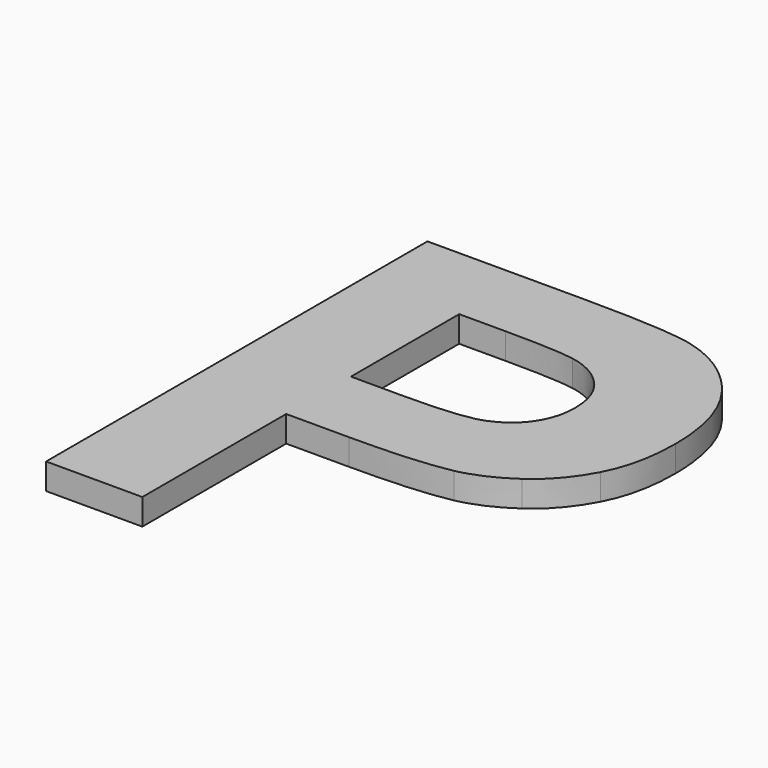
from build123d import *

# Parameters (mm, degrees)
EXTRUDE001_DEPTH = 2
EXTRUDE_DEPTH    = 2


with BuildPart() as extrude001:
    # path2994001 → Extrude001 (new body)
    with BuildSketch(Plane(origin=(10.717886, 5.857762, 0), x_dir=(0, 1, 0), z_dir=(0, 0, 1))):
        with BuildLine():
            add(Edge.make_bspline(
                [(5.186119, 6.507569), (-5.186099, 6.507569)],
                knots=[0, 0, 36.75195, 36.75195], degree=1))
            add(Edge.make_bspline(
                [(-5.186099, 6.507569), (-5.186099, 2.468388)],
                knots=[0, 0, 14.312057, 14.312057], degree=1))
            add(Edge.make_bspline(
                [(-5.186099, 2.468388), (-5.186119, -0.440469), (-4.994964, -2.385258), (-4.612635, -3.365984)],
                knots=[0, 0, 0, 0, 1, 1, 1, 1], degree=3))
            add(Edge.make_bspline(
                [(-4.612635, -3.365984), (-4.230346, -4.346668), (-3.63195, -5.115442), (-2.817443, -5.672306)],
                knots=[0, 0, 0, 0, 1, 1, 1, 1], degree=3))
            add(Edge.make_bspline(
                [(-2.817443, -5.672306), (-2.002981, -6.229124), (-1.05552, -6.507545), (0.024943, -6.507569)],
                knots=[0, 0, 0, 0, 1, 1, 1, 1], degree=3))
            add(Edge.make_bspline(
                [(0.024943, -6.507569), (1.354688, -6.507545), (2.451748, -6.116925), (3.316127, -5.335708)],
                knots=[0, 0, 0, 0, 1, 1, 1, 1], degree=3))
            add(Edge.make_bspline(
                [(3.316127, -5.335708), (4.18045, -4.554445), (4.720669, -3.565428), (4.936786, -2.368655)],
                knots=[0, 0, 0, 0, 1, 1, 1, 1], degree=3))
            add(Edge.make_bspline(
                [(4.936786, -2.368655), (5.102978, -1.487663), (5.186088, 0.282594), (5.186119, 2.942119)],
                knots=[0, 0, 0, 0, 1, 1, 1, 1], degree=3))
            add(Edge.make_bspline(
                [(5.186119, 2.942119), (5.186119, 6.507569)],
                knots=[0, 0, 12.633483, 12.633483], degree=1))
        make_face()
    extrude(amount=EXTRUDE001_DEPTH)


with BuildPart() as cut:
    # path2994 → Extrude (new body)
    with BuildSketch(Plane(origin=(10.830086, -1.048728, 0), x_dir=(0, -1, 0), z_dir=(0, 0, -1))):
        with BuildLine():
            add(Edge.make_bspline(
                [(18.276046, 14), (-18.276046, 14)],
                knots=[0, 0, 129.515286, 129.515286], degree=1))
            add(Edge.make_bspline(
                [(-18.276046, 14), (-18.276046, 2.156723)],
                knots=[0, 0, 41.964366, 41.964366], degree=1))
            add(Edge.make_bspline(
                [(-18.276046, 2.156723), (-18.27601, -2.331235), (-18.093166, -5.25673), (-17.727515, -6.619768)],
                knots=[0, 0, 0, 0, 1, 1, 1, 1], degree=3))
            add(Edge.make_bspline(
                [(-17.727515, -6.619768), (-17.178949, -8.714132), (-15.986312, -10.467766), (-14.149599, -11.880676)],
                knots=[0, 0, 0, 0, 1, 1, 1, 1], degree=3))
            add(Edge.make_bspline(
                [(-14.149599, -11.880676), (-12.312822, -13.293528), (-9.940013, -13.999968), (-7.031166, -14)],
                knots=[0, 0, 0, 0, 1, 1, 1, 1], degree=3))
            add(Edge.make_bspline(
                [(-7.031166, -14), (-4.787154, -13.999968), (-2.900543, -13.592726), (-1.371327, -12.778272)],
                knots=[0, 0, 0, 0, 1, 1, 1, 1], degree=3))
            add(Edge.make_bspline(
                [(-1.371327, -12.778272), (0.157928, -11.963758), (1.358877, -10.92903), (2.231523, -9.674087)],
                knots=[0, 0, 0, 0, 1, 1, 1, 1], degree=3))
            add(Edge.make_bspline(
                [(2.231523, -9.674087), (3.1042, -8.419089), (3.681819, -7.143341), (3.964381, -5.846839)],
                knots=[0, 0, 0, 0, 1, 1, 1, 1], degree=3))
            add(Edge.make_bspline(
                [(3.964381, -5.846839), (4.31346, -4.08487), (4.487992, -1.533373), (4.487978, 1.807658)],
                knots=[0, 0, 0, 0, 1, 1, 1, 1], degree=3))
            add(Edge.make_bspline(
                [(4.487978, 1.807658), (4.487978, 6.619768)],
                knots=[0, 0, 17.050785, 17.050785], degree=1))
            add(Edge.make_bspline(
                [(4.487978, 6.619768), (18.276046, 6.619768)],
                knots=[0, 0, 48.855357, 48.855357], degree=1))
            add(Edge.make_bspline(
                [(18.276046, 6.619768), (18.276046, 14)],
                knots=[0, 0, 26.150426, 26.150426], degree=1))
        make_face()
    extrude(amount=-EXTRUDE_DEPTH)

    # Cut: cut Extrude001
    add(extrude001.part, mode=Mode.SUBTRACT)


solid = cut.part
